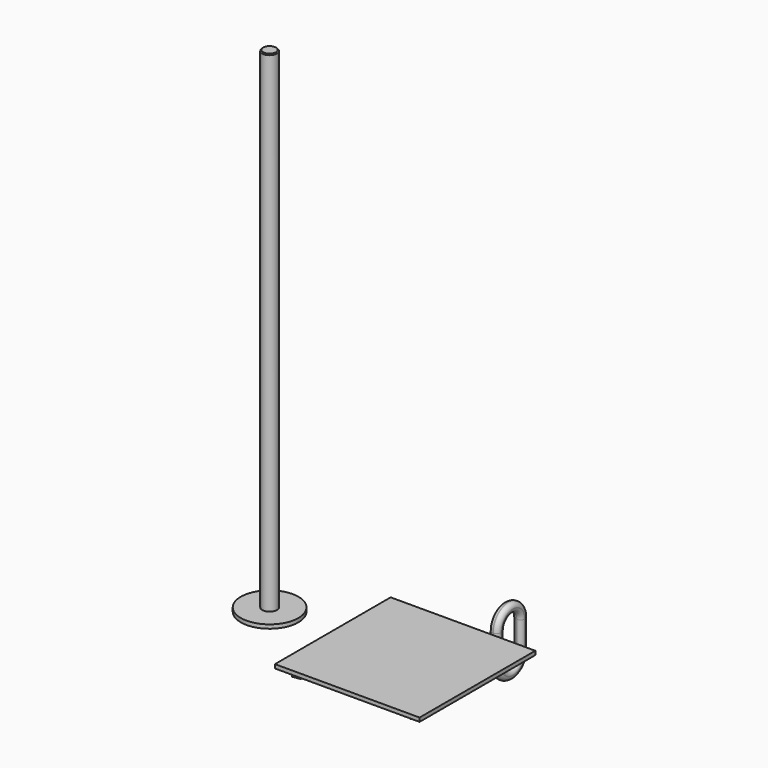
from build123d import *

# Parameters (mm, degrees)
F0_W     = 150
F0_H     = 150
F1_DEPTH = 4
F0_R     = 29.8801597566
F0_R_2   = 7.5894897536
F2_DEPTH = 6
F4_DEPTH = 4.75
F5_R     = 4.5
F5_2_R   = 4.5
F6_DEPTH = 513
F7_SIZE  = 1


with BuildPart() as f1:
    # F0 (on Top) → F1 (new body)
    with BuildSketch(Plane.XY):
        with Locations((3.42727e-05, -4.76837e-05)):
            Rectangle(F0_W, F0_H)
        Polygon((-64.8139969088, -54.8117167897), (-56.7635834504, -53.4203633491), (-51.5334292959, -59.6965491947), (-54.3536885999, -67.364088481), (-62.4041020583, -68.7554419216), (-67.6342562128, -62.479256076), align=None, mode=Mode.SUBTRACT)
        Polygon((49.5439050382, -56.5637165805), (55.3879948742, -50.8548081702), (63.2540995034, -53.061484225), (65.2761142966, -60.9770686901), (59.4320244606, -66.6859771004), (51.5659198314, -64.4793010456), align=None, mode=Mode.SUBTRACT)
        Polygon((-63.2807091155, 60.5603109286), (-55.6869044625, 63.5734740737), (-49.2805263065, 58.5036279054), (-50.4679528036, 50.4206185919), (-58.0617574567, 47.4074554467), (-64.4681356126, 52.4773016151), align=None, mode=Mode.SUBTRACT)
        Polygon((56.2325371116, 65.5267646685), (63.3077590824, 61.4418833591), (63.3077590824, 53.2721207403), (56.2325371116, 49.1872394308), (49.1573151408, 53.2721207403), (49.1573151408, 61.4418833591), align=None, mode=Mode.SUBTRACT)
        Polygon((63.2540995034, -53.061484225), (55.3879948742, -50.8548081702), (49.5439050382, -56.5637165805), (51.5659198314, -64.4793010456), (59.4320244606, -66.6859771004), (65.2761142966, -60.9770686901), align=None)
        Polygon((-51.5334292959, -59.6965491947), (-56.7635834504, -53.4203633491), (-64.8139969088, -54.8117167897), (-67.6342562128, -62.479256076), (-62.4041020583, -68.7554419216), (-54.3536885999, -67.364088481), align=None)
        Polygon((-49.2805263065, 58.5036279054), (-55.6869044625, 63.5734740737), (-63.2807091155, 60.5603109286), (-64.4681356126, 52.4773016151), (-58.0617574567, 47.4074554467), (-50.4679528036, 50.4206185919), align=None)
        Polygon((63.3077590824, 53.2721207403), (63.3077590824, 61.4418833591), (56.2325371116, 65.5267646685), (49.1573151408, 61.4418833591), (49.1573151408, 53.2721207403), (56.2325371116, 49.1872394308), align=None)
    extrude(amount=F1_DEPTH)

    # F0 (on Top) → F2 (join)
    with BuildSketch(Plane.XY):
        Polygon((-49.2805263065, 58.5036279054), (-55.6869044625, 63.5734740737), (-63.2807091155, 60.5603109286), (-64.4681356126, 52.4773016151), (-58.0617574567, 47.4074554467), (-50.4679528036, 50.4206185919), align=None)
        Polygon((63.3077590824, 53.2721207403), (63.3077590824, 61.4418833591), (56.2325371116, 65.5267646685), (49.1573151408, 61.4418833591), (49.1573151408, 53.2721207403), (56.2325371116, 49.1872394308), align=None)
        Polygon((63.2540995034, -53.061484225), (55.3879948742, -50.8548081702), (49.5439050382, -56.5637165805), (51.5659198314, -64.4793010456), (59.4320244606, -66.6859771004), (65.2761142966, -60.9770686901), align=None)
        Polygon((-51.5334292959, -59.6965491947), (-56.7635834504, -53.4203633491), (-64.8139969088, -54.8117167897), (-67.6342562128, -62.479256076), (-62.4041020583, -68.7554419216), (-54.3536885999, -67.364088481), align=None)
    extrude(amount=-F2_DEPTH)

    # F3 (on Right) → F4, piece 2 (join, symmetric)
    with BuildSketch(Plane.YZ):
        with BuildLine():
            Line((-10.4999992428, 0), (-20, 0))
            Line((-20, 0), (-20, -13.1135056913))
            ThreePointArc((-20, -13.1135056913), (0, -33.1135056913), (20, -13.1135056913))
            Line((20, -13.1135056913), (20, 0))
            Line((20, 0), (10.4999992428, 0))
            Line((10.4999992428, 0), (10.4999992428, -13.1135056913))
            ThreePointArc((10.4999992428, -13.1135056913), (0, -23.6135049341), (-10.4999992428, -13.1135056913))
            Line((-10.4999992428, -13.1135056913), (-10.4999992428, 0))
        make_face()
    extrude(amount=F4_DEPTH, both=True)

    # F5#2
    f5_2_edges = [f1.edges().sort_by_distance(p)[0] for p in [
        (4.75, 10.499999, -6.556753),
        (4.75, 0, -23.613505),
        (-4.75, 0, -23.613505),
        (-4.75, 0, -33.113506),
        (4.75, 0, -33.113506),
    ]]
    fillet(f5_2_edges, radius=F5_2_R)


with BuildPart() as f1b:
    # F0 (on Top) → F1, piece 2 (new body)
    with BuildSketch(Plane.XY):
        with Locations((-140.535607934, 0)):
            Circle(F0_R)
        Polygon((-140.535607934, 9.9515673053), (-131.9172978401, 4.9757836527), (-131.9172978401, -4.9757836527), (-140.535607934, -9.9515673053), (-149.1539180279, -4.9757836527), (-149.1539180279, 4.9757836527), align=None, mode=Mode.SUBTRACT)
        Polygon((-131.9172978401, -4.9757836527), (-131.9172978401, 4.9757836527), (-140.535607934, 9.9515673053), (-149.1539180279, 4.9757836527), (-149.1539180279, -4.9757836527), (-140.535607934, -9.9515673053), align=None)
        with Locations((-140.535607934, 0)):
            Circle(F0_R_2, mode=Mode.SUBTRACT)
    extrude(amount=F1_DEPTH)

    # F0 (on Top) → F2, piece 2 (join)
    with BuildSketch(Plane.XY):
        Polygon((-131.9172978401, -4.9757836527), (-131.9172978401, 4.9757836527), (-140.535607934, 9.9515673053), (-149.1539180279, 4.9757836527), (-149.1539180279, -4.9757836527), (-140.535607934, -9.9515673053), align=None)
        with Locations((-140.535607934, 0)):
            Circle(F0_R_2, mode=Mode.SUBTRACT)
        with Locations((-140.535607934, 0)):
            Circle(F0_R_2)
    extrude(amount=-F2_DEPTH)

    # F0 (on Top) → F6 (join)
    with BuildSketch(Plane.XY):
        with Locations((-140.535607934, 0)):
            Circle(F0_R_2)
    extrude(amount=F6_DEPTH)

    # F7
    f7_edges = [f1b.edges().sort_by_distance(p)[0] for p in [
        (-148.125098, 0, 513),
    ]]
    chamfer(f7_edges, length=F7_SIZE)


with BuildPart() as f4:
    # F3 (on Right) → F4 (new body, symmetric)
    with BuildSketch(Plane.YZ):
        with BuildLine():
            ThreePointArc((154.0000033379, -20.000000298), (134.0000033379, -2.98e-07), (114.0000033379, -20.000000298))
            Line((114.0000033379, -20.000000298), (114.0000033379, -50.000000298))
            ThreePointArc((114.0000033379, -50.000000298), (134.0000033379, -70.000000298), (154.0000033379, -50.000000298))
            Line((154.0000033379, -50.000000298), (154.0000033379, -20.000000298))
        make_face()
        with BuildLine():
            ThreePointArc((123.500004095, -20.000000298), (134.0000033379, -9.5000010552), (144.5000025807, -20.000000298))
            Line((144.5000025807, -20.000000298), (144.5000025807, -50.000000298))
            ThreePointArc((144.5000025807, -50.000000298), (134.0000033379, -60.4999995409), (123.500004095, -50.000000298))
            Line((123.500004095, -50.000000298), (123.500004095, -20.000000298))
        make_face(mode=Mode.SUBTRACT)
    extrude(amount=F4_DEPTH, both=True)

    # F5
    f5_edges = [f4.edges().sort_by_distance(p)[0] for p in [
        (4.75, 134.000003, 0),
        (4.75, 114.000003, -35),
        (4.75, 134.000003, -70),
        (4.75, 154.000003, -35),
        (4.75, 144.500003, -35),
        (4.75, 134.000003, -60.5),
        (4.75, 123.500004, -35),
        (4.75, 134.000003, -9.500001),
        (-4.75, 134.000003, 0),
        (-4.75, 114.000003, -35),
        (-4.75, 134.000003, -70),
        (-4.75, 154.000003, -35),
        (-4.75, 144.500003, -35),
        (-4.75, 134.000003, -60.5),
        (-4.75, 123.500004, -35),
        (-4.75, 134.000003, -9.500001),
    ]]
    fillet(f5_edges, radius=F5_R)


solid = Compound([f1.part, f1b.part, f4.part])
